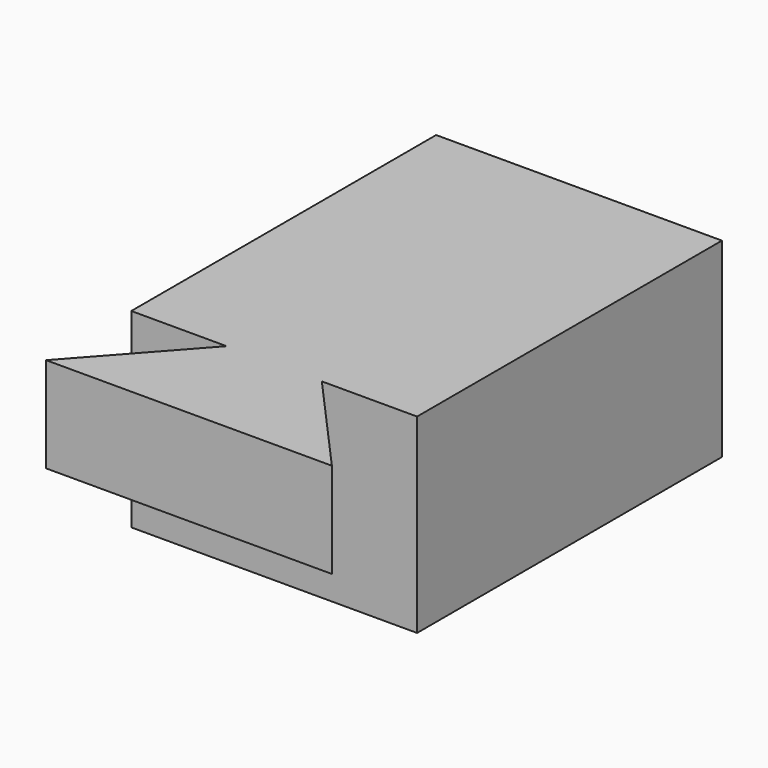
from build123d import *

# Parameters (mm, degrees)
F1_DEPTH = 25.4
F3_DEPTH = 25.4


with BuildPart() as f1:
    # F0 (on Top) → F1 (new body)
    with BuildSketch(Plane.XY):
        Polygon((-25.4, 0), (0, 0), (0, 101.6), (-76.2, 101.6), (-76.2, 0), (-50.8, 0), align=None)
        Polygon((0, -28.398063), (-25.4, 0), (-50.8, 0), (-76.2, -28.398063), align=None)
    extrude(amount=F1_DEPTH)

    # F2 (on face) → F3 (join)
    with BuildSketch(Plane(origin=(0, 0, 0), x_dir=(1, 0, 0), z_dir=(0, 0, -1))):
        Polygon((0, 0), (-25.4, 0), (-50.8, 0), (-76.2, 0), (-76.2, -101.6), (0, -101.6), align=None)
    extrude(amount=F3_DEPTH)


solid = f1.part
